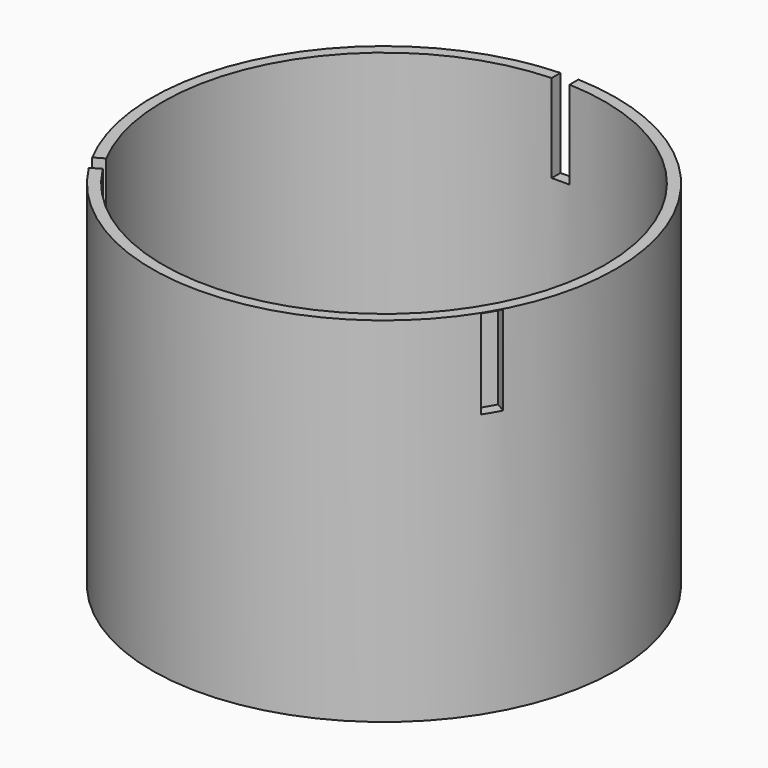
from build123d import *

# Parameters (mm, degrees)
F0_R           = 33.3375
F1_DEPTH       = 50.8
F2_T           = -1.5875
F6_W           = 2.5429241359
F6_H           = 13.1887868047
F7_DEPTH       = 12.7
F10_W          = 2.6744855568
F10_H          = 12.775093317
F11_DEPTH      = 2.794
F11_DEPTH_BACK = 2.413
F13_W          = 2.5820170995
F13_H          = 12.7615630627
F14_DEPTH      = 5.0546
F14_DEPTH_BACK = 4.7244
F15_W          = 7.62
F15_H          = 31.75
F15_W_2        = 0.7620003967
F15_H_2        = 10.16
F15_W_3        = 0.762
F15_W_4        = 10.16
F15_H_3        = 0.762
F16_DEPTH      = 9.906


with BuildPart() as f1:
    # F0 (on Top) → F1 (new body)
    with BuildSketch(Plane.XY):
        Circle(F0_R)
    extrude(amount=F1_DEPTH)

    # F2
    f2_openings = [f1.faces().sort_by_distance(p)[0] for p in [
        (0, 0, 50.8),
    ]]
    offset(amount=F2_T, openings=f2_openings)

    # F6 (on offset) → F7 (cut)
    with BuildSketch(Plane(origin=(-28.8711218987, -16.66875, 0), x_dir=(0.5, -0.8660254038, 0), z_dir=(-0.8660254038, -0.5, 0))):
        with Locations((0, 44.4019660354)):
            Rectangle(F6_W, F6_H)
    extrude(amount=-F7_DEPTH, mode=Mode.SUBTRACT)

    # F10 (on offset) → F11 (cut, two sides)
    with BuildSketch(Plane(origin=(28.8161292855, -16.637, 0), x_dir=(0.5, 0.8660254038, 0), z_dir=(0.8660254038, -0.5, 0))) as f11_sk:
        with Locations((0, 44.3391613662)):
            Rectangle(F10_W, F10_H)
    extrude(amount=-F11_DEPTH, mode=Mode.SUBTRACT)
    extrude(f11_sk.sketch, amount=F11_DEPTH_BACK, mode=Mode.SUBTRACT)

    # F13 (on offset) → F14 (cut, two sides)
    with BuildSketch(Plane.XZ.offset(-33.81375)) as f14_sk:
        with Locations((0, 44.5175170898)):
            Rectangle(F13_W, F13_H)
    extrude(amount=-F14_DEPTH, mode=Mode.SUBTRACT)
    extrude(f14_sk.sketch, amount=F14_DEPTH_BACK, mode=Mode.SUBTRACT)

    # F15 (on Top) → F16 (cut)
    with BuildSketch(Plane.XY):
        with Locations((-8.89, 0)):
            Rectangle(F15_W, F15_H)
        with Locations((-0.6896582572, -0.2738600914)):
            Rectangle(F15_W_2, F15_H_2)
        with Locations((-16.5646602053, -0.2738598244)):
            Rectangle(F15_W_3, F15_H_2)
        with Locations((-8.6557281865, 17.3283369606)):
            Rectangle(F15_W_4, F15_H_3)
    extrude(amount=F16_DEPTH, mode=Mode.SUBTRACT)


solid = f1.part
